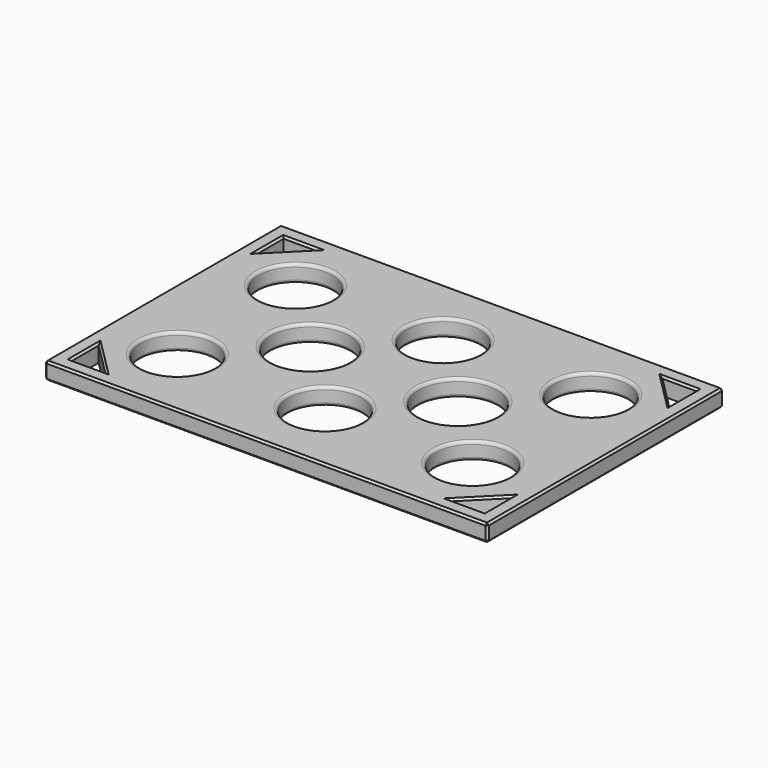
from build123d import *

# Parameters (mm, degrees)
F0_W     = 90
F0_H     = 60
F1_DEPTH = 3.5
F2_R     = 7.5
F2_R_2   = 8
F3_DEPTH = 3.5
F5_DEPTH = 3.5
F6_R     = 0.6
F7_SIZE  = 0.4


with BuildPart() as f1:
    # F0 (on Top) → F1 (new body)
    with BuildSketch(Plane.XY):
        Rectangle(F0_W, F0_H)
    extrude(amount=F1_DEPTH)

    # F2 (on Top) → F3 (cut, through all)
    with BuildSketch(Plane.XY):
        with Locations((0, 15)):
            Circle(F2_R)
        with Locations((30, 15)):
            Circle(F2_R)
        with Locations((15, 0)):
            Circle(F2_R_2)
        with Locations((-30, 15)):
            Circle(F2_R)
        with Locations((30, -15)):
            Circle(F2_R)
        with Locations((0, -15)):
            Circle(F2_R)
        with Locations((-30, -15)):
            Circle(F2_R)
        with Locations((-15, 0)):
            Circle(F2_R_2)
    extrude(amount=F3_DEPTH, mode=Mode.SUBTRACT)

    # F4 (on Top) → F5 (cut, through all)
    with BuildSketch(Plane.XY):
        Polygon((-35, 27), (-42, 27), (-42, 20), align=None)
        Polygon((35, 27), (42, 20), (42, 27), align=None)
        Polygon((-35, -27), (-42, -20), (-42, -27), align=None)
        Polygon((42, -27), (42, -20), (35, -27), align=None)
    extrude(amount=F5_DEPTH, mode=Mode.SUBTRACT)

    # F6
    f6_edges = [f1.edges().sort_by_distance(p)[0] for p in [
        (-22.5, 15, 1.75),
        (-37.5, 15, 0),
        (-37.5, 15, 3.5),
        (7.5, 15, 1.75),
        (-7.5, 15, 0),
        (-7.5, 15, 3.5),
        (37.5, 15, 1.75),
        (22.5, 15, 0),
        (22.5, 15, 3.5),
        (-7, 0, 1.75),
        (-23, 0, 0),
        (-23, 0, 3.5),
        (-22.5, -15, 1.75),
        (-37.5, -15, 0),
        (-37.5, -15, 3.5),
        (7.5, -15, 1.75),
        (-7.5, -15, 0),
        (-7.5, -15, 3.5),
        (37.5, -15, 1.75),
        (22.5, -15, 0),
        (22.5, -15, 3.5),
        (23, 0, 1.75),
        (7, 0, 0),
        (7, 0, 3.5),
    ]]
    fillet(f6_edges, radius=F6_R)

    # F7
    f7_edges = [f1.edges().sort_by_distance(p)[0] for p in [
        (-45, -30, 1.75),
        (45, -30, 1.75),
        (0, -30, 0),
        (0, -30, 3.5),
        (45, 30, 1.75),
        (45, 0, 0),
        (45, 0, 3.5),
        (-45, 30, 1.75),
        (0, 30, 0),
        (0, 30, 3.5),
        (-45, 0, 0),
        (-45, 0, 3.5),
        (-38.1, 15, 3.5),
        (-38.5, -23.5, 3.5),
        (-42, -23.5, 3.5),
        (-38.5, -27, 3.5),
        (42, -23.5, 3.5),
        (38.5, -23.5, 3.5),
        (38.5, -27, 3.5),
        (-38.5, 27, 3.5),
        (-42, 23.5, 3.5),
        (-38.5, 23.5, 3.5),
        (38.5, 23.5, 3.5),
        (42, 23.5, 3.5),
        (38.5, 27, 3.5),
        (-8.1, 15, 3.5),
        (21.9, 15, 3.5),
        (-23.6, 0, 3.5),
        (-38.1, -15, 3.5),
        (-8.1, -15, 3.5),
        (21.9, -15, 3.5),
        (6.4, 0, 3.5),
    ]]
    chamfer(f7_edges, length=F7_SIZE)


solid = f1.part
